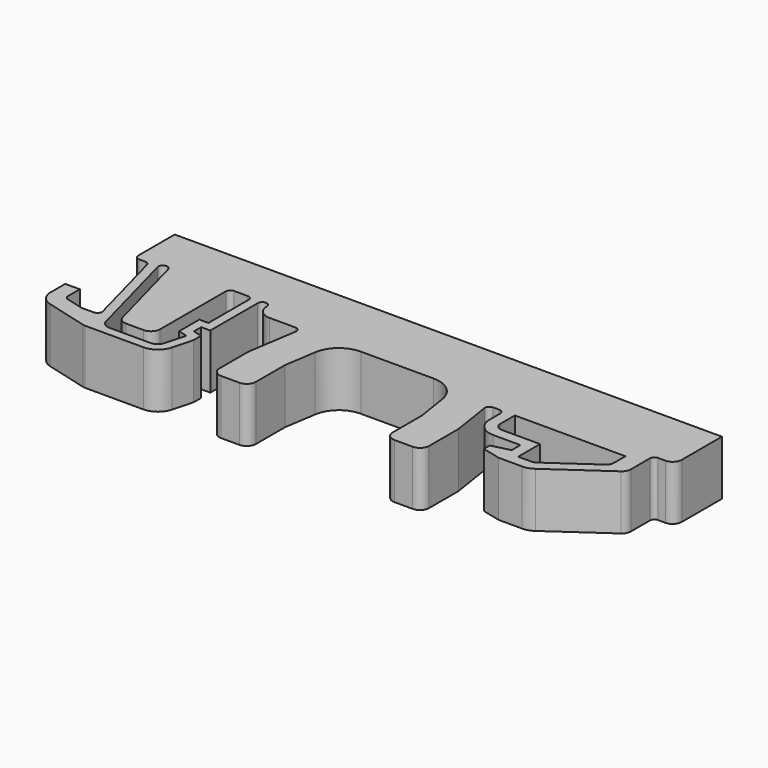
from build123d import *

# Parameters (mm, degrees)
PAD_DEPTH = 3


with BuildPart() as part:
    # Sketch → Pad (new body, symmetric)
    with BuildSketch(Plane.XY):
        with BuildLine():
            Line((30, 12), (-30, 12))
            Line((-30, 12), (-30, 7))
            ThreePointArc((-30, 7), (-29.853553, 6.646447), (-29.5, 6.5))
            Line((-29.5, 6.5), (-28.829405, 6.5))
            ThreePointArc((-28.346442, 6.12941), (-28.525024, 6.396677), (-28.829405, 6.5))
            Line((-28.346442, 6.12941), (-25.908104, -2.97059))
            ThreePointArc((-26.391067, -3.6), (-25.99439, -3.404381), (-25.908104, -2.97059))
            Line((-27.753955, -3.6), (-26.391067, -3.6))
            Line((-29.62941, -3.097473), (-27.753955, -3.6))
            ThreePointArc((-30, -2.61451), (-29.896677, -2.918891), (-29.62941, -3.097473))
            Line((-30, -2.61451), (-30, -1))
            Line((-30, -1), (-31.6, -1))
            Line((-31.6, -1), (-31.6, -3))
            ThreePointArc((-31.6, -3), (-31.228036, -4.095771), (-30.265874, -4.738666))
            Line((-30.265874, -4.738666), (-25.68568, -5.965926))
            ThreePointArc((-25.68568, -5.965926), (-25.557387, -5.991445), (-25.426861, -6))
            Line((-25.426861, -6), (-19.034654, -6))
            ThreePointArc((-19.034654, -6), (-17.817131, -5.586707), (-17.102802, -4.517638))
            Line((-17.102802, -4.517638), (-16.5, -2.267949))
            Line((-16.5, -2.267949), (-16.5, -1.267949))
            Line((-16.5, -1.267949), (-17.5, -1))
            Line((-17.5, -1), (-17.5, 0))
            Line((-17.5, 0), (-16.5, 0))
            Line((-16.5, 0), (-16.5, 6.5))
            ThreePointArc((-15.5, 6.5), (-16, 7), (-16.5, 6.5))
            ThreePointArc((-15.5, 6.5), (-15.06066, 5.43934), (-14, 5))
            Line((-14, 5), (-11.154762, 5))
            ThreePointArc((-10.660644, 4.423529), (-10.775134, 4.825396), (-11.154762, 5))
            Line((-10.660644, 4.423529), (-11.5, -1))
            Line((-11.5, -1), (-11.5, -5))
            ThreePointArc((-11.5, -5), (-11.207107, -5.707107), (-10.5, -6))
            Line((-10.5, -6), (-8.5, -6))
            ThreePointArc((-8.5, -6), (-7.792893, -5.707107), (-7.5, -5))
            Line((-7.5, -5), (-7.5, -1))
            Line((-7.5, -1), (-6.964706, 2.458824))
            ThreePointArc((-4, 5), (-5.952374, 4.27777), (-6.964706, 2.458824))
            Line((-4, 5), (4, 5))
            ThreePointArc((6.964706, 2.458824), (5.952374, 4.27777), (4, 5))
            Line((6.964706, 2.458824), (7.5, -1))
            Line((7.5, -1), (7.5, -5))
            ThreePointArc((7.5, -5), (7.792893, -5.707107), (8.5, -6))
            Line((8.5, -6), (10.5, -6))
            ThreePointArc((10.5, -6), (11.207107, -5.707107), (11.5, -5))
            Line((11.5, -5), (11.5, -1))
            Line((11.5, -1), (10.815406, 3.423529))
            ThreePointArc((11.309524, 4), (10.929896, 3.825396), (10.815406, 3.423529))
            Line((11.309524, 4), (12, 4))
            ThreePointArc((12.5, 3.5), (12.353553, 3.853553), (12, 4))
            Line((12.5, 3.5), (12.5, 2))
            ThreePointArc((12.5, 2), (13.085786, 0.585786), (14.5, 0))
            Line((14.5, 0), (17.5, 0))
            Line((17.5, 0), (17.5, -1.2))
            Line((17.5, -1.2), (15.5, -1.7))
            Line((15.5, -1.7), (15.5, -2.5))
            Line((15.5, -2.5), (17.5, -3))
            Line((17.5, -3), (20.1, -3))
            ThreePointArc((20.1, -3), (20.701412, -2.907434), (21.247153, -2.638304))
            Line((21.247153, -2.638304), (27.272726, 1.580848))
            ThreePointArc((27.272726, 1.580848), (27.586161, 1.938251), (27.69915, 2.4))
            Line((27.69915, 2.4), (27.69915, 5))
            ThreePointArc((28.19915, 5.5), (27.845597, 5.353553), (27.69915, 5))
            Line((29, 5.5), (28.19915, 5.5))
            ThreePointArc((29, 5.5), (29.707107, 5.792893), (30, 6.5))
            Line((30, 6.5), (30, 12))
        make_face()
        with BuildLine():
            Line((-23.894296, -2.758819), (-26.409864, 6.62941))
            ThreePointArc((-26.409864, 6.62941), (-27.022236, 6.982963), (-27.37579, 6.37059))
            Line((-27.37579, 6.37059), (-24.527648, -4.258819))
            ThreePointArc((-24.527648, -4.258819), (-24.170484, -4.793353), (-23.561722, -5))
            Line((-23.561722, -5), (-19.061722, -5))
            ThreePointArc((-19.061722, -5), (-18.452961, -4.793353), (-18.095797, -4.258819))
            Line((-18.095797, -4.258819), (-17.5, -2.035276))
            Line((-17.5, -2.035276), (-18.5, -1.767327))
            Line((-18.5, -1.767327), (-18.5, 1))
            Line((-18.5, 1), (-17.5, 1))
            Line((-17.5, 1), (-17.5, 6.5))
            ThreePointArc((-17.5, 6.5), (-17.646447, 6.853553), (-18, 7))
            Line((-18, 7), (-19.5, 7))
            ThreePointArc((-19.5, 7), (-19.853553, 6.853553), (-20, 6.5))
            Line((-20, 6.5), (-20, -2.5))
            ThreePointArc((-21, -3.5), (-20.292893, -3.207107), (-20, -2.5))
            Line((-21, -3.5), (-22.92837, -3.5))
            ThreePointArc((-23.894296, -2.758819), (-23.537131, -3.293353), (-22.92837, -3.5))
        make_face(mode=Mode.SUBTRACT)
        with BuildLine():
            Line((25.818763, 4), (13.7, 4))
            Line((13.7, 4), (13.7, 2))
            ThreePointArc((13.7, 2), (13.934315, 1.434315), (14.5, 1.2))
            Line((14.5, 1.2), (18.7, 1.2))
            Line((18.7, 1.2), (18.7, -1.8))
            Line((18.7, -1.8), (20.1, -1.8))
            ThreePointArc((20.1, -1.8), (20.400706, -1.753717), (20.673576, -1.619152))
            Line((20.673576, -1.619152), (25.477624, 1.744678))
            ThreePointArc((25.477624, 1.744678), (25.728372, 2.030601), (25.818763, 2.4))
            Line((25.818763, 2.4), (25.818763, 4))
        make_face(mode=Mode.SUBTRACT)
    extrude(amount=PAD_DEPTH, both=True)


solid = part.part
